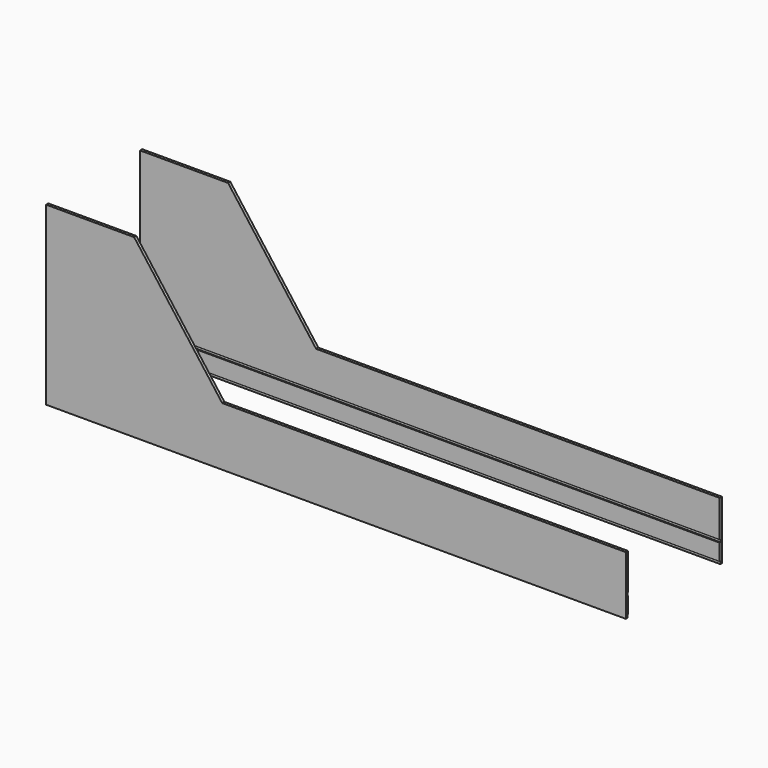
from build123d import *

# Parameters (mm, degrees)
F1_DEPTH  = 9.525
F2_W      = 3.175
F2_H      = 9.525
F7_DEPTH  = 2006.601
F3_W      = 3.175
F3_H      = 9.525
F8_DEPTH  = 2006.601
F9_W      = 3.175
F9_H      = 9.525
F10_DEPTH = 2006.601
F11_W     = 3.175
F11_H     = 9.525
F12_DEPTH = 2006.601


with BuildPart() as f1:
    # F0 (on Front) → F1 (new body)
    with BuildSketch(Plane.XZ):
        Polygon((0, 609.6), (0, 0), (2006.6, 0), (2006.6, 203.2), (609.6, 203.2), (304.8, 609.6), align=None)
    extrude(amount=F1_DEPTH)


with BuildPart() as f4_1:
    # F4: copy of F1
    add(f1.part.moved(Location((0, 628.15571, 0))))


with BuildPart() as f6_1:
    # F6: copy of F1
    add(f1.part.moved(Location((0, 406.4, 0))))

    # F9 (on Right) → F10 (cut, through all)
    with BuildSketch(Plane.YZ):
        with Locations((398.4625, 4.7625)):
            Rectangle(F9_W, F9_H)
    extrude(amount=F10_DEPTH, mode=Mode.SUBTRACT)

    # F11 (on Right) → F12 (cut, through all)
    with BuildSketch(Plane.YZ):
        with Locations((398.4625, 71.4375)):
            Rectangle(F11_W, F11_H)
    extrude(amount=F12_DEPTH, mode=Mode.SUBTRACT)


with BuildPart() as f1_1:
    add(f1.part)

    # F2 (on Right) → F7 (cut, through all)
    with BuildSketch(Plane.YZ):
        with Locations((-1.5875, 4.7625)):
            Rectangle(F2_W, F2_H)
    extrude(amount=F7_DEPTH, mode=Mode.SUBTRACT)

    # F3 (on Right) → F8 (cut, through all)
    with BuildSketch(Plane.YZ):
        with Locations((-1.5875, 71.4375)):
            Rectangle(F3_W, F3_H)
    extrude(amount=F8_DEPTH, mode=Mode.SUBTRACT)


solid = Compound([f6_1.part, f1_1.part])
